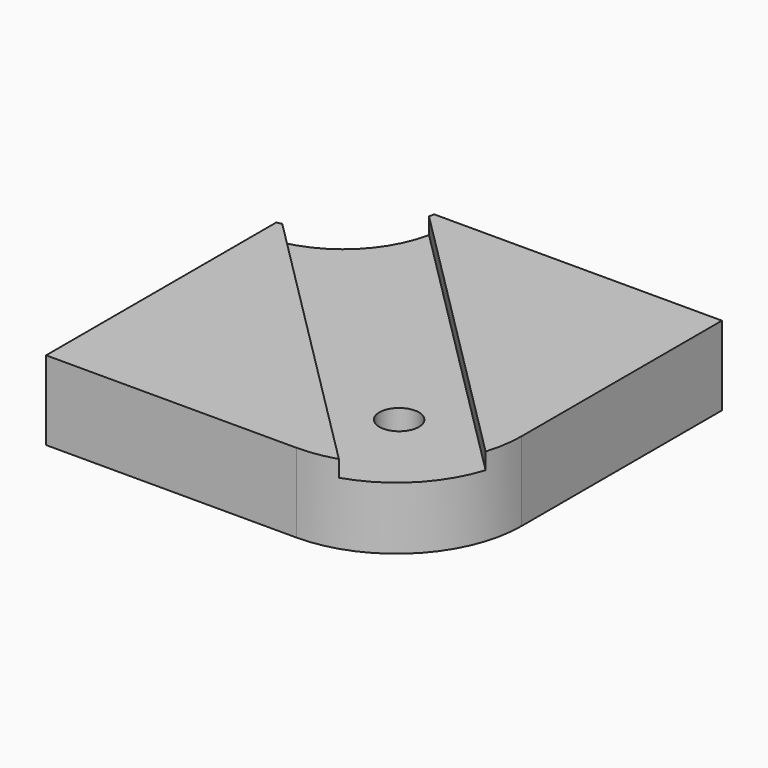
from build123d import *

# Parameters (mm, degrees)
PAD016_DEPTH            = 24
POCKET028_DEPTH         = 5
SKETCH046_R             = 32
SKETCH046_R_2           = 6
POCKET029_DEPTH         = 24
BODY014_PLACEMENT_ANGLE = 180


with BuildPart() as part:
    # Sketch044 → Pad016 (new body)
    with BuildSketch(Plane.XY):
        with BuildLine():
            Line((5, 5), (119, 5))
            Line((119, 5), (119, 81))
            ThreePointArc((119, 81), (107.870058, 107.870058), (81, 119))
            Line((81, 119), (5, 119))
            Line((5, 119), (5, 5))
        make_face()
    extrude(amount=PAD016_DEPTH)

    # Sketch045 (on Face6 of Pad016) → Pocket028 (cut)
    with BuildSketch(Plane(origin=(0, 0, 0), x_dir=(1, 0, 0), z_dir=(0, 0, -1))):
        Polygon((12.374369, 12.374369), (123.206096, -98.457359), (98.457359, -123.206096), (-12.374369, -12.374369), (0, 0), align=None)
    extrude(amount=-POCKET028_DEPTH, mode=Mode.SUBTRACT)

    # Sketch046 (on Face6 of Pocket028) → Pocket029 (cut)
    with BuildSketch(Plane.XY.offset(24)):
        Circle(SKETCH046_R)
        with Locations((85, 85)):
            Circle(SKETCH046_R_2)
    extrude(amount=-POCKET029_DEPTH, mode=Mode.SUBTRACT)


with BuildPart() as part_1:
    # Body014 placement: moved
    add(part.part.moved(Location((0, 210, -90))).rotate(Axis((0, 210, -90), (1, 0, 0)), BODY014_PLACEMENT_ANGLE))


solid = part_1.part
